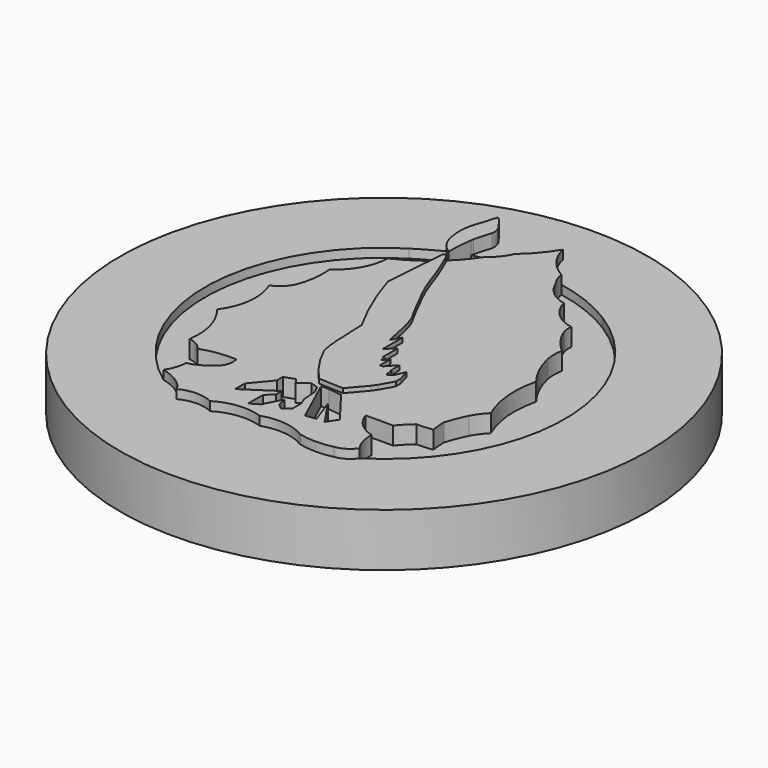
from build123d import *

# Parameters (mm, degrees)
F0_R     = 75.761041
F1_DEPTH = 15.24
F2_DEPTH = 17.78
F3_DEPTH = 12.7
F4_DEPTH = 19.05
F5_DEPTH = 12.7


with BuildPart() as f1:
    # F0 (on Top) → F1 (new body)
    with BuildSketch(Plane.XY):
        Circle(F0_R)
        with BuildLine():
            ThreePointArc((0, -44.694874), (-6.698976, -43.92915), (-13.087294, -46.086002))
            ThreePointArc((-13.087294, -46.086002), (-17.844669, -45.032863), (-22.572273, -46.212468))
            ThreePointArc((-22.572273, -46.212468), (-23.479388, -44.817912), (-24.653265, -43.639075))
            ThreePointArc((-24.653265, -43.639075), (-27.518111, -41.852991), (-30.714938, -40.767759))
            ThreePointArc((-30.714938, -40.767759), (-51.525479, 2.178307), (-27.518111, 43.422572))
            ThreePointArc((-27.518111, 43.422572), (-23.354942, 45.885647), (-19.090898, 48.169642))
            ThreePointArc((-19.090898, 48.169642), (-19.442179, 51.639756), (-18.96324, 55.094566))
            ThreePointArc((-18.96324, 55.094566), (-18.321621, 57.123136), (-17.640181, 59.138678))
            ThreePointArc((-17.640181, 59.138678), (-17.282068, 60.53514), (-16.834937, 61.905697))
            ThreePointArc((-16.834937, 61.905697), (-15.512503, 60.65068), (-14.493804, 59.138678))
            ThreePointArc((-14.493804, 59.138678), (-13.302033, 57.287685), (-13.110409, 55.094566))
            ThreePointArc((-13.110409, 55.094566), (-13.86762, 52.665331), (-14.493804, 50.199069))
            ThreePointArc((-14.493804, 50.199069), (-14.550585, 49.833548), (-14.604735, 49.467629))
            ThreePointArc((-14.604735, 49.467629), (-9.772643, 50.752481), (-4.810781, 51.368821))
            ThreePointArc((-4.810781, 51.368821), (-4.576328, 51.832216), (-4.361111, 52.304853))
            ThreePointArc((-4.361111, 52.304853), (-0.472265, 56.218509), (2.759957, 60.689814))
            ThreePointArc((2.759957, 60.689814), (5.358044, 55.071123), (10.056058, 51.040191))
            ThreePointArc((10.056058, 51.040191), (19.03753, 48.433704), (27.381955, 44.211004))
            ThreePointArc((27.381955, 44.211004), (51.418464, 0.580097), (27.381955, -43.050811))
            ThreePointArc((27.381955, -43.050811), (25.244784, -45.095676), (22.457629, -46.086002))
            ThreePointArc((22.457629, -46.086002), (17.647973, -46.651117), (12.838317, -46.086002))
            ThreePointArc((12.838317, -46.086002), (6.573443, -43.96659), (0, -44.694874))
        make_face(mode=Mode.SUBTRACT)
        with BuildLine():
            ThreePointArc((-22.572273, -46.212468), (-17.844669, -45.032863), (-13.087294, -46.086002))
            ThreePointArc((-13.087294, -46.086002), (-6.698976, -43.92915), (0, -44.694874))
            ThreePointArc((0, -44.694874), (6.573443, -43.96659), (12.838317, -46.086002))
            ThreePointArc((12.838317, -46.086002), (17.647973, -46.651117), (22.457629, -46.086002))
            ThreePointArc((22.457629, -46.086002), (25.244784, -45.095676), (27.381955, -43.050811))
            ThreePointArc((27.381955, -43.050811), (25.873282, -39.851222), (25.500562, -36.333475))
            ThreePointArc((25.500562, -36.333475), (21.135702, -33.960173), (18.480679, -29.760718))
            ThreePointArc((18.480679, -29.760718), (22.415389, -29.706408), (26.3501, -29.760718))
            ThreePointArc((26.3501, -29.760718), (28.116623, -27.773478), (30.061247, -25.960147))
            ThreePointArc((30.061247, -25.960147), (32.370823, -25.90484), (34.666646, -25.647158))
            ThreePointArc((34.666646, -25.647158), (34.436566, -23.547981), (34.291012, -21.441256))
            ThreePointArc((34.291012, -21.441256), (35.376455, -18.349923), (36.723427, -15.363255))
            ThreePointArc((36.723427, -15.363255), (38.069593, -13.238248), (39.719176, -11.339118))
            ThreePointArc((39.719176, -11.339118), (37.377554, -2.350209), (38.107317, 6.909981))
            ThreePointArc((38.107317, 6.909981), (35.126254, 11.73303), (33.269979, 17.090527))
            ThreePointArc((33.269979, 17.090527), (33.026304, 19.683088), (33.269979, 22.275649))
            ThreePointArc((33.269979, 22.275649), (30.157606, 25.560792), (27.958389, 29.515849))
            ThreePointArc((27.958389, 29.515849), (27.639676, 31.048859), (27.673839, 32.614276))
            ThreePointArc((27.673839, 32.614276), (22.201552, 35.295824), (19.168973, 40.581662))
            ThreePointArc((19.168973, 40.581662), (14.76949, 42.645875), (11.928773, 46.588812))
            ThreePointArc((11.928773, 46.588812), (10.735398, 48.706373), (10.056058, 51.040191))
            ThreePointArc((10.056058, 51.040191), (5.358044, 55.071123), (2.759957, 60.689814))
            ThreePointArc((2.759957, 60.689814), (-0.472265, 56.218509), (-4.361111, 52.304853))
            ThreePointArc((-4.361111, 52.304853), (-4.576328, 51.832216), (-4.810781, 51.368821))
            ThreePointArc((-4.810781, 51.368821), (-6.480197, 48.956066), (-8.660968, 46.993267))
            ThreePointArc((-8.660968, 46.993267), (-11.346334, 43.424002), (-14.410238, 40.173873))
            ThreePointArc((-14.410238, 40.173873), (-14.197888, 39.999884), (-14.027013, 39.78502))
            ThreePointArc((-14.027013, 39.78502), (-11.721994, 34.337014), (-9.701457, 28.777219))
            ThreePointArc((-9.701457, 28.777219), (-7.845026, 24.064984), (-5.559683, 19.545171))
            ThreePointArc((-5.559683, 19.545171), (-3.679528, 15.75671), (-1.639225, 12.052039))
            ThreePointArc((-1.639225, 12.052039), (-0.913308, 10.238932), (-0.406177, 8.352896))
            ThreePointArc((-0.406177, 8.352896), (0.177159, 5.858429), (0.73202, 3.357474))
            ThreePointArc((0.73202, 3.357474), (1.00353, 1.846284), (1.364352, 0.353897))
            Line((1.364352, 0.353897), (2.880972, 3.013441))
            Line((2.880972, 3.013441), (2.880972, -4.058511))
            Line((2.880972, -4.058511), (5.300324, -1.772091))
            Line((5.300324, -1.772091), (5.300324, -7.142521))
            Line((5.300324, -7.142521), (5.964981, -7.142521))
            Line((5.964981, -7.142521), (5.964981, -8.631352))
            Line((5.964981, -8.631352), (7.320882, -6.823485))
            Line((7.320882, -6.823485), (7.320882, -10.625324))
            Line((7.320882, -10.625324), (8.171643, -10.625324))
            Line((8.171643, -10.625324), (10.777099, -7.86035))
            Line((10.777099, -7.86035), (10.777099, -11.210222))
            Line((10.777099, -11.210222), (11.149308, -11.210222))
            Line((11.149308, -11.210222), (11.149308, -12.885158))
            Line((11.149308, -12.885158), (11.521515, -13.363712))
            Line((11.521515, -13.363712), (12.833856, -12.343004))
            Line((12.833856, -12.343004), (14.020626, -9.402354))
            Line((14.020626, -9.402354), (15.004319, -12.911744))
            Line((15.004319, -12.911744), (15.004319, -14.533508))
            Line((15.004319, -14.533508), (12.877417, -18.335346))
            Line((12.877417, -18.335346), (11.973483, -19.611489))
            Line((11.973483, -19.611489), (7.799436, -24.503365))
            Line((7.799436, -24.503365), (0.681725, -24.195544))
            ThreePointArc((0.681725, -24.195544), (-3.608, -18.798387), (-6.970777, -12.779851))
            ThreePointArc((-6.970777, -12.779851), (-7.598578, -8.697264), (-7.782775, -4.570798))
            ThreePointArc((-7.782775, -4.570798), (-7.962952, -1.252621), (-8.074534, 2.068571))
            ThreePointArc((-8.074534, 2.068571), (-12.909798, 11.893671), (-16.674249, 22.17673))
            ThreePointArc((-16.674249, 22.17673), (-16.068813, 30.750368), (-15.344193, 39.314757))
            ThreePointArc((-15.344193, 39.314757), (-20.046989, 35.707457), (-25.228066, 32.829031))
            ThreePointArc((-25.228066, 32.829031), (-27.154637, 25.867027), (-32.057252, 20.56179))
            ThreePointArc((-32.057252, 20.56179), (-32.120577, 15.173385), (-33.479914, 9.958874))
            ThreePointArc((-33.479914, 9.958874), (-35.307764, 7.601188), (-37.840061, 6.024104))
            ThreePointArc((-37.840061, 6.024104), (-36.544089, -2.407319), (-39.647929, -10.353047))
            ThreePointArc((-39.647929, -10.353047), (-35.952425, -17.458135), (-35.500471, -25.454057))
            ThreePointArc((-35.500471, -25.454057), (-33.026869, -26.22876), (-31.140318, -28.006341))
            ThreePointArc((-31.140318, -28.006341), (-26.214191, -26.793806), (-21.143876, -26.623854))
            ThreePointArc((-21.143876, -26.623854), (-21.278857, -29.830953), (-23.377122, -32.260146))
            ThreePointArc((-23.377122, -32.260146), (-25.921247, -33.971537), (-28.800726, -35.02512))
            ThreePointArc((-28.800726, -35.02512), (-29.374245, -38.024302), (-30.714938, -40.767759))
            ThreePointArc((-30.714938, -40.767759), (-27.518111, -41.852991), (-24.653265, -43.639075))
            ThreePointArc((-24.653265, -43.639075), (-23.479388, -44.817912), (-22.572273, -46.212468))
        make_face()
        Polygon((-12.34365, -34.5443), (-7.665874, -28.905272), (-7.665874, -26.75393), (-4.691957, -25.678258), (-3.616286, -27.196854), (-0.740544, -25.159872), (1.426523, -25.778165), (2.517603, -27.960323), (2.780966, -32.136522), (3.608681, -34.318682), (3.608681, -37.441425), (1.50177, -38.908739), (0, -37.629545), (-0.189701, -36.482029), (-0.379401, -35.334513), (-0.906129, -35.710748), (-3.163534, -40.187936), (-5.684304, -41.692872), (-5.684304, -36.387969), (-3.577392, -34.318682), (-3.577392, -32.249395), (-12.34365, -38.043566), align=None, mode=Mode.SUBTRACT)
        Polygon((7.935375, -38.306955), (1.84038, -24.911908), (4.060162, -24.911908), (7.972999, -25.401052), (15.271941, -34.958191), (13.2779, -37.930686), (8.311609, -30.555887), (10.945249, -37.930686), align=None, mode=Mode.SUBTRACT)
    extrude(amount=F1_DEPTH)

    # F0 (on Top) → F2 (join)
    with BuildSketch(Plane.XY):
        with BuildLine():
            ThreePointArc((-22.572273, -46.212468), (-17.844669, -45.032863), (-13.087294, -46.086002))
            ThreePointArc((-13.087294, -46.086002), (-6.698976, -43.92915), (0, -44.694874))
            ThreePointArc((0, -44.694874), (6.573443, -43.96659), (12.838317, -46.086002))
            ThreePointArc((12.838317, -46.086002), (17.647973, -46.651117), (22.457629, -46.086002))
            ThreePointArc((22.457629, -46.086002), (25.244784, -45.095676), (27.381955, -43.050811))
            ThreePointArc((27.381955, -43.050811), (25.873282, -39.851222), (25.500562, -36.333475))
            ThreePointArc((25.500562, -36.333475), (21.135702, -33.960173), (18.480679, -29.760718))
            ThreePointArc((18.480679, -29.760718), (22.415389, -29.706408), (26.3501, -29.760718))
            ThreePointArc((26.3501, -29.760718), (28.116623, -27.773478), (30.061247, -25.960147))
            ThreePointArc((30.061247, -25.960147), (32.370823, -25.90484), (34.666646, -25.647158))
            ThreePointArc((34.666646, -25.647158), (34.436566, -23.547981), (34.291012, -21.441256))
            ThreePointArc((34.291012, -21.441256), (35.376455, -18.349923), (36.723427, -15.363255))
            ThreePointArc((36.723427, -15.363255), (38.069593, -13.238248), (39.719176, -11.339118))
            ThreePointArc((39.719176, -11.339118), (37.377554, -2.350209), (38.107317, 6.909981))
            ThreePointArc((38.107317, 6.909981), (35.126254, 11.73303), (33.269979, 17.090527))
            ThreePointArc((33.269979, 17.090527), (33.026304, 19.683088), (33.269979, 22.275649))
            ThreePointArc((33.269979, 22.275649), (30.157606, 25.560792), (27.958389, 29.515849))
            ThreePointArc((27.958389, 29.515849), (27.639676, 31.048859), (27.673839, 32.614276))
            ThreePointArc((27.673839, 32.614276), (22.201552, 35.295824), (19.168973, 40.581662))
            ThreePointArc((19.168973, 40.581662), (14.76949, 42.645875), (11.928773, 46.588812))
            ThreePointArc((11.928773, 46.588812), (10.735398, 48.706373), (10.056058, 51.040191))
            ThreePointArc((10.056058, 51.040191), (5.358044, 55.071123), (2.759957, 60.689814))
            ThreePointArc((2.759957, 60.689814), (-0.472265, 56.218509), (-4.361111, 52.304853))
            ThreePointArc((-4.361111, 52.304853), (-4.576328, 51.832216), (-4.810781, 51.368821))
            ThreePointArc((-4.810781, 51.368821), (-6.480197, 48.956066), (-8.660968, 46.993267))
            ThreePointArc((-8.660968, 46.993267), (-11.346334, 43.424002), (-14.410238, 40.173873))
            ThreePointArc((-14.410238, 40.173873), (-14.197888, 39.999884), (-14.027013, 39.78502))
            ThreePointArc((-14.027013, 39.78502), (-11.721994, 34.337014), (-9.701457, 28.777219))
            ThreePointArc((-9.701457, 28.777219), (-7.845026, 24.064984), (-5.559683, 19.545171))
            ThreePointArc((-5.559683, 19.545171), (-3.679528, 15.75671), (-1.639225, 12.052039))
            ThreePointArc((-1.639225, 12.052039), (-0.913308, 10.238932), (-0.406177, 8.352896))
            ThreePointArc((-0.406177, 8.352896), (0.177159, 5.858429), (0.73202, 3.357474))
            ThreePointArc((0.73202, 3.357474), (1.00353, 1.846284), (1.364352, 0.353897))
            Line((1.364352, 0.353897), (2.880972, 3.013441))
            Line((2.880972, 3.013441), (2.880972, -4.058511))
            Line((2.880972, -4.058511), (5.300324, -1.772091))
            Line((5.300324, -1.772091), (5.300324, -7.142521))
            Line((5.300324, -7.142521), (5.964981, -7.142521))
            Line((5.964981, -7.142521), (5.964981, -8.631352))
            Line((5.964981, -8.631352), (7.320882, -6.823485))
            Line((7.320882, -6.823485), (7.320882, -10.625324))
            Line((7.320882, -10.625324), (8.171643, -10.625324))
            Line((8.171643, -10.625324), (10.777099, -7.86035))
            Line((10.777099, -7.86035), (10.777099, -11.210222))
            Line((10.777099, -11.210222), (11.149308, -11.210222))
            Line((11.149308, -11.210222), (11.149308, -12.885158))
            Line((11.149308, -12.885158), (11.521515, -13.363712))
            Line((11.521515, -13.363712), (12.833856, -12.343004))
            Line((12.833856, -12.343004), (14.020626, -9.402354))
            Line((14.020626, -9.402354), (15.004319, -12.911744))
            Line((15.004319, -12.911744), (15.004319, -14.533508))
            Line((15.004319, -14.533508), (12.877417, -18.335346))
            Line((12.877417, -18.335346), (11.973483, -19.611489))
            Line((11.973483, -19.611489), (7.799436, -24.503365))
            Line((7.799436, -24.503365), (0.681725, -24.195544))
            ThreePointArc((0.681725, -24.195544), (-3.608, -18.798387), (-6.970777, -12.779851))
            ThreePointArc((-6.970777, -12.779851), (-7.598578, -8.697264), (-7.782775, -4.570798))
            ThreePointArc((-7.782775, -4.570798), (-7.962952, -1.252621), (-8.074534, 2.068571))
            ThreePointArc((-8.074534, 2.068571), (-12.909798, 11.893671), (-16.674249, 22.17673))
            ThreePointArc((-16.674249, 22.17673), (-16.068813, 30.750368), (-15.344193, 39.314757))
            ThreePointArc((-15.344193, 39.314757), (-20.046989, 35.707457), (-25.228066, 32.829031))
            ThreePointArc((-25.228066, 32.829031), (-27.154637, 25.867027), (-32.057252, 20.56179))
            ThreePointArc((-32.057252, 20.56179), (-32.120577, 15.173385), (-33.479914, 9.958874))
            ThreePointArc((-33.479914, 9.958874), (-35.307764, 7.601188), (-37.840061, 6.024104))
            ThreePointArc((-37.840061, 6.024104), (-36.544089, -2.407319), (-39.647929, -10.353047))
            ThreePointArc((-39.647929, -10.353047), (-35.952425, -17.458135), (-35.500471, -25.454057))
            ThreePointArc((-35.500471, -25.454057), (-33.026869, -26.22876), (-31.140318, -28.006341))
            ThreePointArc((-31.140318, -28.006341), (-26.214191, -26.793806), (-21.143876, -26.623854))
            ThreePointArc((-21.143876, -26.623854), (-21.278857, -29.830953), (-23.377122, -32.260146))
            ThreePointArc((-23.377122, -32.260146), (-25.921247, -33.971537), (-28.800726, -35.02512))
            ThreePointArc((-28.800726, -35.02512), (-29.374245, -38.024302), (-30.714938, -40.767759))
            ThreePointArc((-30.714938, -40.767759), (-27.518111, -41.852991), (-24.653265, -43.639075))
            ThreePointArc((-24.653265, -43.639075), (-23.479388, -44.817912), (-22.572273, -46.212468))
        make_face()
        Polygon((-12.34365, -34.5443), (-7.665874, -28.905272), (-7.665874, -26.75393), (-4.691957, -25.678258), (-3.616286, -27.196854), (-0.740544, -25.159872), (1.426523, -25.778165), (2.517603, -27.960323), (2.780966, -32.136522), (3.608681, -34.318682), (3.608681, -37.441425), (1.50177, -38.908739), (0, -37.629545), (-0.189701, -36.482029), (-0.379401, -35.334513), (-0.906129, -35.710748), (-3.163534, -40.187936), (-5.684304, -41.692872), (-5.684304, -36.387969), (-3.577392, -34.318682), (-3.577392, -32.249395), (-12.34365, -38.043566), align=None, mode=Mode.SUBTRACT)
        Polygon((7.935375, -38.306955), (1.84038, -24.911908), (4.060162, -24.911908), (7.972999, -25.401052), (15.271941, -34.958191), (13.2779, -37.930686), (8.311609, -30.555887), (10.945249, -37.930686), align=None, mode=Mode.SUBTRACT)
    extrude(amount=F2_DEPTH)

    # F0 (on Top) → F3 (join)
    with BuildSketch(Plane.XY):
        with BuildLine():
            ThreePointArc((-27.518111, 43.422572), (-51.525479, 2.178307), (-30.714938, -40.767759))
            ThreePointArc((-30.714938, -40.767759), (-29.374245, -38.024302), (-28.800726, -35.02512))
            ThreePointArc((-28.800726, -35.02512), (-25.921247, -33.971537), (-23.377122, -32.260146))
            ThreePointArc((-23.377122, -32.260146), (-21.278857, -29.830953), (-21.143876, -26.623854))
            ThreePointArc((-21.143876, -26.623854), (-26.214191, -26.793806), (-31.140318, -28.006341))
            ThreePointArc((-31.140318, -28.006341), (-33.026869, -26.22876), (-35.500471, -25.454057))
            ThreePointArc((-35.500471, -25.454057), (-35.952425, -17.458135), (-39.647929, -10.353047))
            ThreePointArc((-39.647929, -10.353047), (-36.544089, -2.407319), (-37.840061, 6.024104))
            ThreePointArc((-37.840061, 6.024104), (-35.307764, 7.601188), (-33.479914, 9.958874))
            ThreePointArc((-33.479914, 9.958874), (-32.120577, 15.173385), (-32.057252, 20.56179))
            ThreePointArc((-32.057252, 20.56179), (-27.154637, 25.867027), (-25.228066, 32.829031))
            ThreePointArc((-25.228066, 32.829031), (-20.046989, 35.707457), (-15.344193, 39.314757))
            ThreePointArc((-15.344193, 39.314757), (-15.295185, 39.847155), (-15.245715, 40.379509))
            ThreePointArc((-15.245715, 40.379509), (-14.810388, 40.34815), (-14.410238, 40.173873))
            ThreePointArc((-14.410238, 40.173873), (-11.346334, 43.424002), (-8.660968, 46.993267))
            ThreePointArc((-8.660968, 46.993267), (-6.480197, 48.956066), (-4.810781, 51.368821))
            ThreePointArc((-4.810781, 51.368821), (-9.772643, 50.752481), (-14.604735, 49.467629))
            ThreePointArc((-14.604735, 49.467629), (-15.000509, 45.798704), (-15.132295, 42.110849))
            ThreePointArc((-15.132295, 42.110849), (-17.664778, 44.450746), (-18.96324, 47.644895))
            ThreePointArc((-18.96324, 47.644895), (-19.029487, 47.90668), (-19.090898, 48.169642))
            ThreePointArc((-19.090898, 48.169642), (-23.354942, 45.885647), (-27.518111, 43.422572))
        make_face()
        with BuildLine():
            ThreePointArc((25.500562, -36.333475), (25.873282, -39.851222), (27.381955, -43.050811))
            ThreePointArc((27.381955, -43.050811), (51.418464, 0.580097), (27.381955, 44.211004))
            ThreePointArc((27.381955, 44.211004), (19.03753, 48.433704), (10.056058, 51.040191))
            ThreePointArc((10.056058, 51.040191), (10.735398, 48.706373), (11.928773, 46.588812))
            ThreePointArc((11.928773, 46.588812), (14.76949, 42.645875), (19.168973, 40.581662))
            ThreePointArc((19.168973, 40.581662), (22.201552, 35.295824), (27.673839, 32.614276))
            ThreePointArc((27.673839, 32.614276), (27.639676, 31.048859), (27.958389, 29.515849))
            ThreePointArc((27.958389, 29.515849), (30.157606, 25.560792), (33.269979, 22.275649))
            ThreePointArc((33.269979, 22.275649), (33.026304, 19.683088), (33.269979, 17.090527))
            ThreePointArc((33.269979, 17.090527), (35.126254, 11.73303), (38.107317, 6.909981))
            ThreePointArc((38.107317, 6.909981), (37.377554, -2.350209), (39.719176, -11.339118))
            ThreePointArc((39.719176, -11.339118), (38.069593, -13.238248), (36.723427, -15.363255))
            ThreePointArc((36.723427, -15.363255), (35.376455, -18.349923), (34.291012, -21.441256))
            ThreePointArc((34.291012, -21.441256), (34.436566, -23.547981), (34.666646, -25.647158))
            ThreePointArc((34.666646, -25.647158), (32.370823, -25.90484), (30.061247, -25.960147))
            ThreePointArc((30.061247, -25.960147), (28.116623, -27.773478), (26.3501, -29.760718))
            ThreePointArc((26.3501, -29.760718), (22.415389, -29.706408), (18.480679, -29.760718))
            ThreePointArc((18.480679, -29.760718), (21.135702, -33.960173), (25.500562, -36.333475))
        make_face()
    extrude(amount=F3_DEPTH)

    # F0 (on Top) → F4 (join)
    with BuildSketch(Plane.XY):
        with BuildLine():
            ThreePointArc((-14.027013, 39.78502), (-14.197888, 39.999884), (-14.410238, 40.173873))
            ThreePointArc((-14.410238, 40.173873), (-14.810388, 40.34815), (-15.245715, 40.379509))
            ThreePointArc((-15.245715, 40.379509), (-15.295185, 39.847155), (-15.344193, 39.314757))
            ThreePointArc((-15.344193, 39.314757), (-16.068813, 30.750368), (-16.674249, 22.17673))
            ThreePointArc((-16.674249, 22.17673), (-12.909798, 11.893671), (-8.074534, 2.068571))
            ThreePointArc((-8.074534, 2.068571), (-7.962952, -1.252621), (-7.782775, -4.570798))
            ThreePointArc((-7.782775, -4.570798), (-7.598578, -8.697264), (-6.970777, -12.779851))
            ThreePointArc((-6.970777, -12.779851), (-3.608, -18.798387), (0.681725, -24.195544))
            Line((0.681725, -24.195544), (7.799436, -24.503365))
            Line((7.799436, -24.503365), (11.973483, -19.611489))
            Line((11.973483, -19.611489), (12.877417, -18.335346))
            Line((12.877417, -18.335346), (15.004319, -14.533508))
            Line((15.004319, -14.533508), (15.004319, -12.911744))
            Line((15.004319, -12.911744), (14.020626, -9.402354))
            Line((14.020626, -9.402354), (12.833856, -12.343004))
            Line((12.833856, -12.343004), (11.521515, -13.363712))
            Line((11.521515, -13.363712), (11.149308, -12.885158))
            Line((11.149308, -12.885158), (11.149308, -11.210222))
            Line((11.149308, -11.210222), (10.777099, -11.210222))
            Line((10.777099, -11.210222), (10.777099, -7.86035))
            Line((10.777099, -7.86035), (8.171643, -10.625324))
            Line((8.171643, -10.625324), (7.320882, -10.625324))
            Line((7.320882, -10.625324), (7.320882, -6.823485))
            Line((7.320882, -6.823485), (5.964981, -8.631352))
            Line((5.964981, -8.631352), (5.964981, -7.142521))
            Line((5.964981, -7.142521), (5.300324, -7.142521))
            Line((5.300324, -7.142521), (5.300324, -1.772091))
            Line((5.300324, -1.772091), (2.880972, -4.058511))
            Line((2.880972, -4.058511), (2.880972, 3.013441))
            Line((2.880972, 3.013441), (1.364352, 0.353897))
            ThreePointArc((1.364352, 0.353897), (1.00353, 1.846284), (0.73202, 3.357474))
            ThreePointArc((0.73202, 3.357474), (0.177159, 5.858429), (-0.406177, 8.352896))
            ThreePointArc((-0.406177, 8.352896), (-0.913308, 10.238932), (-1.639225, 12.052039))
            ThreePointArc((-1.639225, 12.052039), (-3.679528, 15.75671), (-5.559683, 19.545171))
            ThreePointArc((-5.559683, 19.545171), (-7.845026, 24.064984), (-9.701457, 28.777219))
            ThreePointArc((-9.701457, 28.777219), (-11.721994, 34.337014), (-14.027013, 39.78502))
        make_face()
        with BuildLine():
            ThreePointArc((-18.96324, 55.094566), (-19.442179, 51.639756), (-19.090898, 48.169642))
            ThreePointArc((-19.090898, 48.169642), (-19.029487, 47.90668), (-18.96324, 47.644895))
            ThreePointArc((-18.96324, 47.644895), (-17.664778, 44.450746), (-15.132295, 42.110849))
            ThreePointArc((-15.132295, 42.110849), (-15.000509, 45.798704), (-14.604735, 49.467629))
            ThreePointArc((-14.604735, 49.467629), (-14.550585, 49.833548), (-14.493804, 50.199069))
            ThreePointArc((-14.493804, 50.199069), (-13.86762, 52.665331), (-13.110409, 55.094566))
            ThreePointArc((-13.110409, 55.094566), (-13.302033, 57.287685), (-14.493804, 59.138678))
            ThreePointArc((-14.493804, 59.138678), (-15.512503, 60.65068), (-16.834937, 61.905697))
            ThreePointArc((-16.834937, 61.905697), (-17.282068, 60.53514), (-17.640181, 59.138678))
            ThreePointArc((-17.640181, 59.138678), (-18.321621, 57.123136), (-18.96324, 55.094566))
        make_face()
    extrude(amount=F4_DEPTH)

    # F0 (on Top) → F5 (join)
    with BuildSketch(Plane.XY):
        Polygon((-7.665874, -26.75393), (-7.665874, -28.905272), (-12.34365, -34.5443), (-12.34365, -38.043566), (-3.577392, -32.249395), (-3.577392, -34.318682), (-5.684304, -36.387969), (-5.684304, -41.692872), (-3.163534, -40.187936), (-0.906129, -35.710748), (-0.379401, -35.334513), (-0.189701, -36.482029), (0, -34.130409), (-0.740544, -32.023322), (-1.13187, -30.066742), (-1.13187, -27.508138), (-0.740544, -25.159872), (-3.616286, -27.196854), (-4.691957, -25.678258), align=None)
        Polygon((1.426523, -25.778165), (-0.740544, -25.159872), (-1.13187, -27.508138), (-1.13187, -30.066742), (-0.740544, -32.023322), (0, -34.130409), (-0.189701, -36.482029), (0, -37.629545), (1.50177, -38.908739), (3.608681, -37.441425), (3.608681, -34.318682), (2.780966, -32.136522), (2.517603, -27.960323), align=None)
        Polygon((4.060162, -24.911908), (1.84038, -24.911908), (7.935375, -38.306955), (10.945249, -37.930686), (8.311609, -30.555887), align=None)
        Polygon((7.972999, -25.401052), (4.060162, -24.911908), (8.311609, -30.555887), (13.2779, -37.930686), (15.271941, -34.958191), align=None)
    extrude(amount=F5_DEPTH)


solid = f1.part
